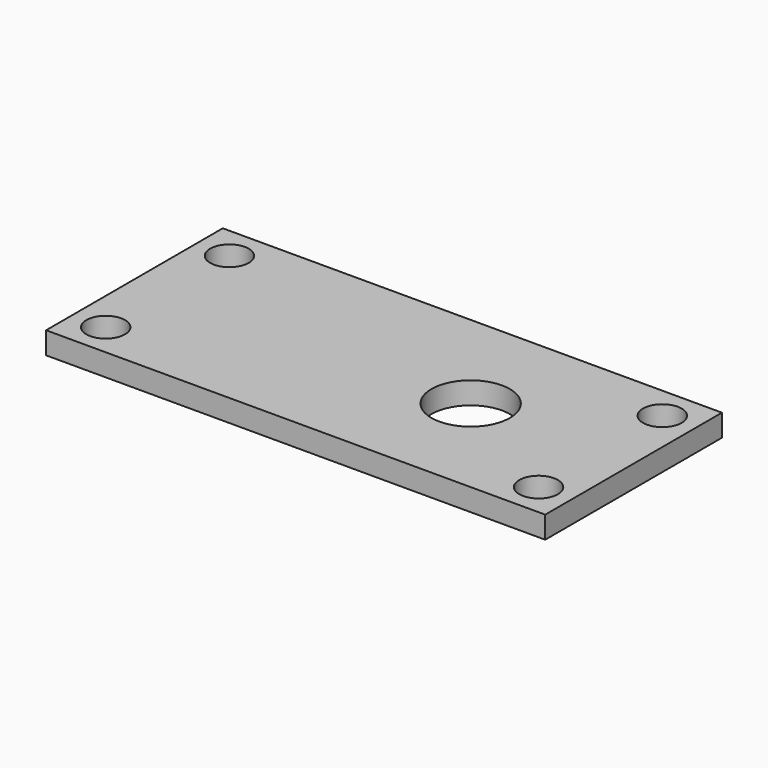
from build123d import *

# Parameters (mm, degrees)
CIRCLE004_R      = 3.55
EXTRUDE004_DEPTH = 10
CIRCLE002_R      = 1.753689
EXTRUDE003_DEPTH = 10
CIRCLE001_R      = 1.746402
EXTRUDE002_DEPTH = 10
CIRCLE003_R      = 1.746988
EXTRUDE_DEPTH    = 10
CIRCLE_R         = 1.749447
EXTRUDE001_DEPTH = 10
BOX_W            = 45.2
BOX_H            = 20
BOX_DEPTH        = 2


with BuildPart() as extrude004:
    # Circle004 → Extrude004 (new body)
    with BuildSketch(Plane(origin=(30.45, 10, 2), x_dir=(-1, 0, 0), z_dir=(0, 0, 1))):
        Circle(CIRCLE004_R)
    extrude(amount=EXTRUDE004_DEPTH)


with BuildPart() as extrude004_1:
    # Extrude004 placement: moved
    add(extrude004.part.moved(Location((0, 0, -4))))


with BuildPart() as extrude003:
    # Circle002 → Extrude003 (new body)
    with BuildSketch(Plane(origin=(42.2, 17.004963, 2), x_dir=(-1, 0, 0), z_dir=(0, 0, 1))):
        Circle(CIRCLE002_R)
    extrude(amount=EXTRUDE003_DEPTH)


with BuildPart() as extrude003_1:
    # Extrude003 placement: moved
    add(extrude003.part.moved(Location((0, 0, -5))))


with BuildPart() as extrude002:
    # Circle001 → Extrude002 (new body)
    with BuildSketch(Plane(origin=(42.199112, 2.997812, 2), x_dir=(-1, 0, 0), z_dir=(0, 0, 1))):
        Circle(CIRCLE001_R)
    extrude(amount=EXTRUDE002_DEPTH)


with BuildPart() as extrude002_1:
    # Extrude002 placement: moved
    add(extrude002.part.moved(Location((0, 0, -5))))


with BuildPart() as extrude_body:
    # Circle003 → Extrude (new body)
    with BuildSketch(Plane(origin=(3, 17.004963, 2), x_dir=(-1, 0, 0), z_dir=(0, 0, 1))):
        Circle(CIRCLE003_R)
    extrude(amount=EXTRUDE_DEPTH)


with BuildPart() as extrude_body_1:
    # Extrude placement: moved
    add(extrude_body.part.moved(Location((0, 0, -5))))


with BuildPart() as extrude001:
    # Circle → Extrude001 (new body)
    with BuildSketch(Plane(origin=(3, 2.998732, 2), x_dir=(-1, 0, 0), z_dir=(0, 0, 1))):
        Circle(CIRCLE_R)
    extrude(amount=EXTRUDE001_DEPTH)


with BuildPart() as extrude001_1:
    # Extrude001 placement: moved
    add(extrude001.part.moved(Location((0, 0, -5))))


with BuildPart() as base_con_agujeros:
    # Box → Box (new body)
    with BuildSketch(Plane.XY):
        with Locations((22.6, 10)):
            Rectangle(BOX_W, BOX_H)
    extrude(amount=BOX_DEPTH)

    # Cut: cut Extrude001
    add(extrude001_1.part, mode=Mode.SUBTRACT)

    # Cut001: cut Extrude body
    add(extrude_body_1.part, mode=Mode.SUBTRACT)

    # Cut002: cut Extrude002
    add(extrude002_1.part, mode=Mode.SUBTRACT)

    # Cut003: cut Extrude003
    add(extrude003_1.part, mode=Mode.SUBTRACT)

    # Cut004: cut Extrude004
    add(extrude004_1.part, mode=Mode.SUBTRACT)


solid = base_con_agujeros.part
